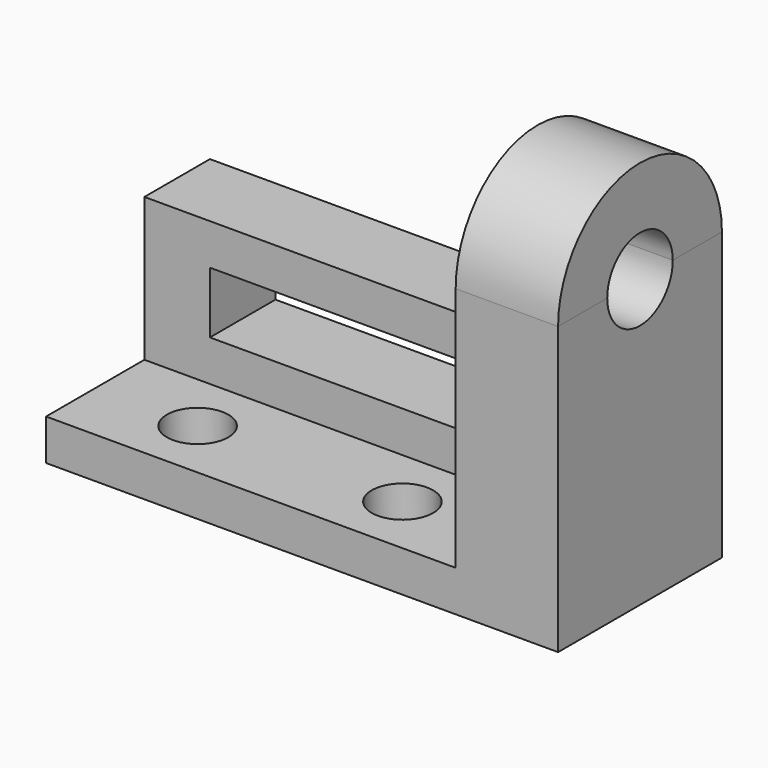
from build123d import *

# Parameters (mm, degrees)
F0_W      = 100
F0_H      = 35
F0_W_2    = 68
F0_H_2    = 15
F1_DEPTH  = 50
F2_W      = 100
F2_H      = 30
F4_DEPTH  = 35
F5_R      = 7.5
F6_DEPTH  = 2540
F8_DEPTH  = 25
F10_DEPTH = 508
F12_DEPTH = 508


with BuildPart() as f1:
    # F0 (on Front) → F1 (new body)
    with BuildSketch(Plane.XZ):
        Polygon((50.0022833438, 4.5221619845), (-49.9977166562, 4.5221619845), (-49.9977166562, -5.4778380155), (75.0022833438, -5.4778380155), (75.0022833438, 64.5221619845), (50.0022833438, 64.5221619845), (50.0022833438, 39.5221619845), align=None)
        with Locations((0.0022833438, 22.0221619845)):
            Rectangle(F0_W, F0_H)
        with Locations((0.0022833438, 22.0221619845)):
            Rectangle(F0_W_2, F0_H_2, mode=Mode.SUBTRACT)
    extrude(amount=F1_DEPTH)

    # F2 (on face) → F4 (cut)
    with BuildSketch(Plane.XY.offset(39.5221619845)):
        with Locations((0.0022833438, -35)):
            Rectangle(F2_W, F2_H)
    extrude(amount=-F4_DEPTH, mode=Mode.SUBTRACT)

    # F5 (on face) → F6 (cut)
    with BuildSketch(Plane.XY.offset(4.5221619845)):
        with Locations((-24.9977166562, -35)):
            Circle(F5_R)
        with Locations((25.0022833438, -35)):
            Circle(F5_R)
    extrude(amount=-F6_DEPTH, mode=Mode.SUBTRACT)


with BuildPart() as f8:
    # F7 (on face) → F8 (new body)
    with BuildSketch(Plane.YZ.offset(75.0022833438)):
        with BuildLine():
            Line((-50, 64.5221619845), (0, 64.5221619845))
            ThreePointArc((0, 64.5221619845), (-25, 89.5221619845), (-50, 64.5221619845))
        make_face()
    extrude(amount=-F8_DEPTH)


with BuildPart() as f10_tool:
    # F9 (on face) → F10 (new body)
    with BuildSketch(Plane(origin=(50.0022833438, 0, 0), x_dir=(0, -1, 0), z_dir=(-1, 0, 0))):
        with BuildLine():
            Line((15, 64.5221619845), (35, 64.5221619845))
            ThreePointArc((35, 64.5221619845), (25, 74.5221619845), (15, 64.5221619845))
        make_face()
        with BuildLine():
            ThreePointArc((15, 64.5221619845), (25, 54.5221619845), (35, 64.5221619845))
            Line((35, 64.5221619845), (15, 64.5221619845))
        make_face()
    extrude(amount=-F10_DEPTH)


with BuildPart() as f1_1:
    add(f1.part)

    # F10: cut by f10_tool
    add(f10_tool.part, mode=Mode.SUBTRACT)

    # F11 (on face) → F12 (cut)
    with BuildSketch(Plane(origin=(50.0022833438, 0, 0), x_dir=(0, -1, 0), z_dir=(-1, 0, 0))):
        with BuildLine():
            ThreePointArc((15, 64.5221619845), (25, 54.5221619845), (35, 64.5221619845))
            ThreePointArc((35, 64.5221619845), (25, 74.5221619845), (15, 64.5221619845))
        make_face()
    extrude(amount=-F12_DEPTH, mode=Mode.SUBTRACT)


with BuildPart() as f8_1:
    add(f8.part)

    # F10: cut by f10_tool
    add(f10_tool.part, mode=Mode.SUBTRACT)


solid = Compound([f1_1.part, f8_1.part])
